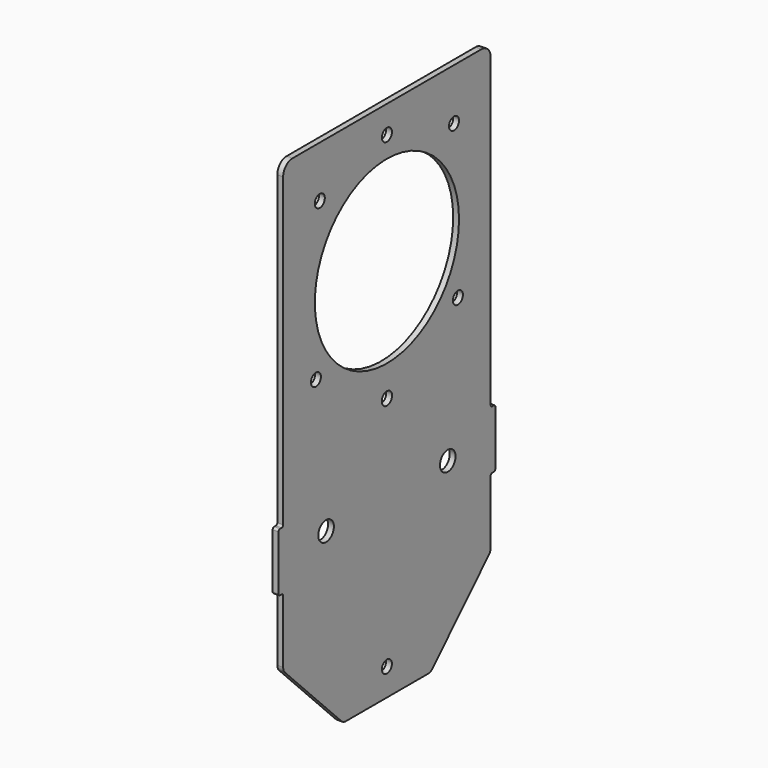
from build123d import *

# Parameters (mm, degrees)
F0_R     = 2.5
F0_R_2   = 1.6
F0_R_3   = 1.65
F0_R_4   = 23.1
F1_DEPTH = 1.5


with BuildPart() as f1:
    # F0 (on Right) → F1 (new body)
    with BuildSketch(Plane.YZ):
        with BuildLine():
            ThreePointArc((33.25, 64), (32.37132, 66.12132), (30.25, 67))
            Line((30.25, 67), (-30.25, 67))
            ThreePointArc((-30.25, 67), (-32.37132, 66.12132), (-33.25, 64))
            Line((-33.25, 64), (-33.25, -14.5))
            ThreePointArc((-33.25, -14.5), (-33.396447, -14.853553), (-33.75, -15))
            Line((-33.75, -15), (-34.25, -15))
            ThreePointArc((-34.25, -15), (-34.603553, -15.146447), (-34.75, -15.5))
            Line((-34.75, -15.5), (-34.75, -29.5))
            ThreePointArc((-34.75, -29.5), (-34.603553, -29.853553), (-34.25, -30))
            Line((-34.25, -30), (-33.75, -30))
            ThreePointArc((-33.75, -30), (-33.396447, -30.146447), (-33.25, -30.5))
            Line((-33.25, -30.5), (-33.25, -46.679121))
            ThreePointArc((-33.25, -46.679121), (-33.100218, -47.438524), (-32.673308, -48.084182))
            Line((-32.673308, -48.084182), (-14.587312, -66.40506))
            ThreePointArc((-14.587312, -66.40506), (-13.935328, -66.845281), (-13.164004, -67))
            Line((-13.164004, -67), (13.164004, -67))
            ThreePointArc((13.164004, -67), (13.935328, -66.845281), (14.587312, -66.40506))
            Line((14.587312, -66.40506), (32.673308, -48.084182))
            ThreePointArc((32.673308, -48.084182), (33.100218, -47.438524), (33.25, -46.679121))
            Line((33.25, -46.679121), (33.25, -30.5))
            ThreePointArc((33.25, -30.5), (33.396447, -30.146447), (33.75, -30))
            Line((33.75, -30), (34.25, -30))
            ThreePointArc((34.25, -30), (34.603553, -29.853553), (34.75, -29.5))
            Line((34.75, -29.5), (34.75, -15.5))
            ThreePointArc((34.75, -15.5), (34.603553, -15.146447), (34.25, -15))
            Line((34.25, -15), (33.75, -15))
            ThreePointArc((33.75, -15), (33.396447, -14.853553), (33.25, -14.5))
            Line((33.25, -14.5), (33.25, 64))
        make_face()
        with Locations((-19.5, -21.5)):
            Circle(F0_R, mode=Mode.SUBTRACT)
        with Locations((0, -60)):
            Circle(F0_R_2, mode=Mode.SUBTRACT)
        with Locations((19.5, -21.5)):
            Circle(F0_R, mode=Mode.SUBTRACT)
        with Locations((-22.75, 14)):
            Circle(F0_R_2, mode=Mode.SUBTRACT)
        with Locations((-21.5, 53.83)):
            Circle(F0_R_2, mode=Mode.SUBTRACT)
        with Locations((0, 0.5)):
            Circle(F0_R_3, mode=Mode.SUBTRACT)
        with Locations((0, 31.5)):
            Circle(F0_R_4, mode=Mode.SUBTRACT)
        with Locations((22.75, 14)):
            Circle(F0_R_2, mode=Mode.SUBTRACT)
        with Locations((0, 60)):
            Circle(F0_R_2, mode=Mode.SUBTRACT)
        with Locations((21.5, 53.83)):
            Circle(F0_R_2, mode=Mode.SUBTRACT)
    extrude(amount=F1_DEPTH)


solid = f1.part
